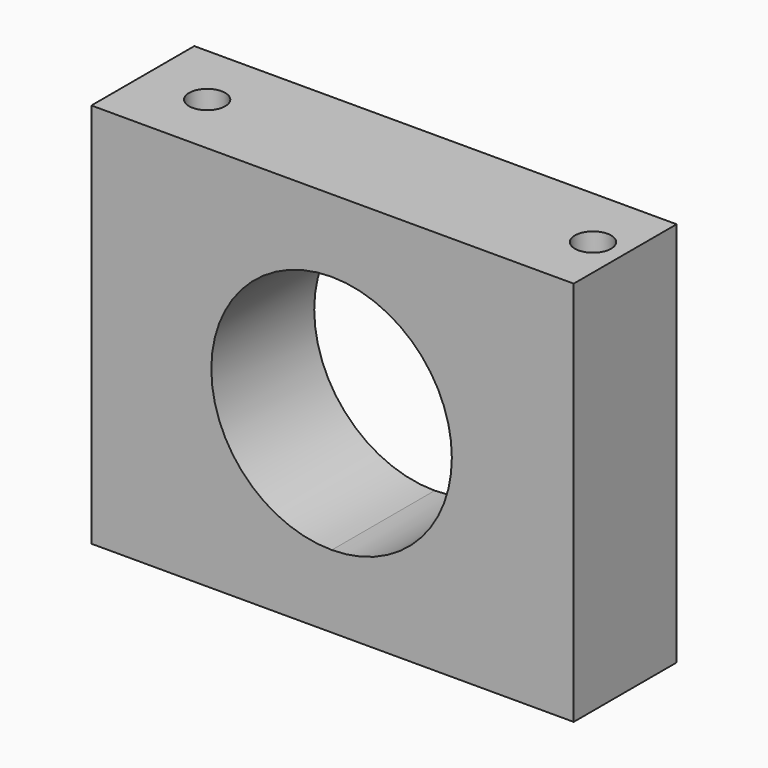
from build123d import *

# Parameters (mm, degrees)
F1_DEPTH = 25.4
F3_DEPTH = 7.1374
F5_DEPTH = 7.1374


with BuildPart() as f1:
    # F0 (on Front) → F1 (new body)
    with BuildSketch(Plane.XZ):
        with BuildLine():
            ThreePointArc((23.749, 9.35351), (-16.807393, 26.132263), (0.040503, -14.395455))
            ThreePointArc((0.040503, -14.395455), (16.807393, -7.425243), (23.749, 9.35351))
        make_face()
        Polygon((47.816977, 47.453566), (-47.433023, 47.453566), (-47.433023, -28.746434), (0.064977, -28.746434), (47.816977, -28.746434), align=None)
        with BuildLine():
            ThreePointArc((23.749, 9.35351), (16.807393, -7.425243), (0.040503, -14.395455))
            ThreePointArc((0.040503, -14.395455), (-16.807393, 26.132263), (23.749, 9.35351))
        make_face(mode=Mode.SUBTRACT)
    extrude(amount=-F1_DEPTH)

    # F2 (on face) → F3 (cut)
    with BuildSketch(Plane.XY.offset(47.453566)):
        with BuildLine():
            ThreePointArc((-31.164323, 12.7), (-34.733023, 16.2687), (-38.301723, 12.7))
            Line((-38.301723, 12.7), (-34.733023, 12.7))
            Line((-34.733023, 12.7), (-31.164323, 12.7))
        make_face()
        with BuildLine():
            Line((-34.733023, 12.7), (-38.301723, 12.7))
            ThreePointArc((-38.301723, 12.7), (-34.733023, 9.1313), (-31.164323, 12.7))
            Line((-31.164323, 12.7), (-34.733023, 12.7))
        make_face()
    extrude(amount=-F3_DEPTH, mode=Mode.SUBTRACT)

    # F4 (on face) → F5 (cut)
    with BuildSketch(Plane.XY.offset(47.453566)):
        with BuildLine():
            ThreePointArc((37.898277, 12.7), (41.466977, 9.1313), (45.035677, 12.7))
            ThreePointArc((45.035677, 12.7), (41.466977, 16.2687), (37.898277, 12.7))
        make_face()
    extrude(amount=-F5_DEPTH, mode=Mode.SUBTRACT)


solid = f1.part
